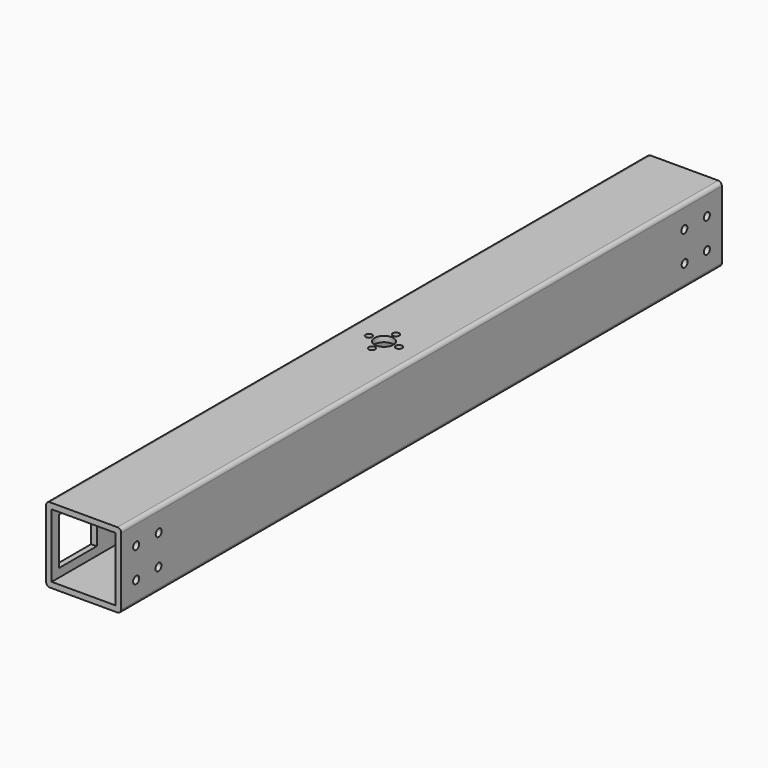
from build123d import *

# Parameters (mm, degrees)
SKETCH_W       = 34
SKETCH_H       = 34
PAD_DEPTH      = 400
SKETCH001_R    = 5
HOLE_DEPTH     = 40.001
SKETCH002_R    = 1.75
HOLE001_DEPTH  = 40.001
SKETCH003_R    = 2
HOLE002_DEPTH  = 25
HOLE002_TIPS_R = 2
SKETCH004_W    = 25
SKETCH004_H    = 25
POCKET_DEPTH   = 3


with BuildPart() as part:
    # Sketch → Pad (new body)
    with BuildSketch(Plane.XZ):
        with BuildLine():
            Line((2, 0), (38, 0))
            ThreePointArc((38, 0), (39.414214, 0.585786), (40, 2))
            Line((40, 2), (40, 38))
            ThreePointArc((40, 38), (39.414214, 39.414214), (38, 40))
            Line((38, 40), (2, 40))
            ThreePointArc((2, 40), (0.585786, 39.414214), (0, 38))
            Line((0, 38), (0, 2))
            ThreePointArc((0, 2), (0.585786, 0.585786), (2, 0))
        make_face()
        with Locations((20, 20)):
            Rectangle(SKETCH_W, SKETCH_H, mode=Mode.SUBTRACT)
    extrude(amount=PAD_DEPTH)

    # Sketch001 (on Face5 of Pad) → Hole (cut, through all)
    with BuildSketch(Plane(origin=(0, 0, 40), x_dir=(-1, 0, 0), z_dir=(0, 0, 1))):
        with Locations((-20, 200)):
            Circle(SKETCH001_R)
    extrude(amount=-HOLE_DEPTH, mode=Mode.SUBTRACT)

    # Sketch002 (on Face10 of Hole) → Hole001 (cut, through all)
    with BuildSketch(Plane(origin=(0, 0, 40), x_dir=(-1, 0, 0), z_dir=(0, 0, 1))):
        with Locations((-12.000042, 200.025804)):
            Circle(SKETCH002_R)
        with Locations((-27.999958, 200.025804)):
            Circle(SKETCH002_R)
        with Locations((-20, 192)):
            Circle(SKETCH002_R)
        with Locations((-20, 208)):
            Circle(SKETCH002_R)
    extrude(amount=-HOLE001_DEPTH, mode=Mode.SUBTRACT)

    # Sketch003 (on Face12 of Hole001) → Hole002 (cut)
    with BuildSketch(Plane(origin=(40, 0, 0), x_dir=(0, 0, 1), z_dir=(1, 0, 0))):
        with Locations((27.886159, 10)):
            Circle(SKETCH003_R)
        with Locations((11.886159, 10)):
            Circle(SKETCH003_R)
        with Locations((27.886159, 25)):
            Circle(SKETCH003_R)
        with Locations((11.886159, 24.829785)):
            Circle(SKETCH003_R)
        with Locations((27.886159, 390)):
            Circle(SKETCH003_R)
        with Locations((11.886159, 390)):
            Circle(SKETCH003_R)
        with Locations((27.886159, 375)):
            Circle(SKETCH003_R)
        with Locations((11.886159, 375.170215)):
            Circle(SKETCH003_R)
    extrude(amount=-HOLE002_DEPTH, mode=Mode.SUBTRACT)

    # Hole002 tips → Hole002 tip 1 section 0
    with BuildSketch(Plane(origin=(15, 0, 0), x_dir=(0, 0, 1), z_dir=(1, 0, 0)), mode=Mode.PRIVATE) as hole002_tip_1_s0:
        with Locations((27.886159, 10)):
            Circle(HOLE002_TIPS_R)
    loft([hole002_tip_1_s0.sketch, Vertex(13.798279, -10, 27.886159)], mode=Mode.SUBTRACT)

    # Hole002 tips → Hole002 tip 2 section 0
    with BuildSketch(Plane(origin=(15, 0, 0), x_dir=(0, 0, 1), z_dir=(1, 0, 0)), mode=Mode.PRIVATE) as hole002_tip_2_s0:
        with Locations((11.886159, 10)):
            Circle(HOLE002_TIPS_R)
    loft([hole002_tip_2_s0.sketch, Vertex(13.798279, -10, 11.886159)], mode=Mode.SUBTRACT)

    # Hole002 tips → Hole002 tip 3 section 0
    with BuildSketch(Plane(origin=(15, 0, 0), x_dir=(0, 0, 1), z_dir=(1, 0, 0)), mode=Mode.PRIVATE) as hole002_tip_3_s0:
        with Locations((27.886159, 25)):
            Circle(HOLE002_TIPS_R)
    loft([hole002_tip_3_s0.sketch, Vertex(13.798279, -25, 27.886159)], mode=Mode.SUBTRACT)

    # Hole002 tips → Hole002 tip 4 section 0
    with BuildSketch(Plane(origin=(15, 0, 0), x_dir=(0, 0, 1), z_dir=(1, 0, 0)), mode=Mode.PRIVATE) as hole002_tip_4_s0:
        with Locations((11.886159, 24.829785)):
            Circle(HOLE002_TIPS_R)
    loft([hole002_tip_4_s0.sketch, Vertex(13.798279, -24.829785, 11.886159)], mode=Mode.SUBTRACT)

    # Hole002 tips → Hole002 tip 5 section 0
    with BuildSketch(Plane(origin=(15, 0, 0), x_dir=(0, 0, 1), z_dir=(1, 0, 0)), mode=Mode.PRIVATE) as hole002_tip_5_s0:
        with Locations((27.886159, 390)):
            Circle(HOLE002_TIPS_R)
    loft([hole002_tip_5_s0.sketch, Vertex(13.798279, -390, 27.886159)], mode=Mode.SUBTRACT)

    # Hole002 tips → Hole002 tip 6 section 0
    with BuildSketch(Plane(origin=(15, 0, 0), x_dir=(0, 0, 1), z_dir=(1, 0, 0)), mode=Mode.PRIVATE) as hole002_tip_6_s0:
        with Locations((11.886159, 390)):
            Circle(HOLE002_TIPS_R)
    loft([hole002_tip_6_s0.sketch, Vertex(13.798279, -390, 11.886159)], mode=Mode.SUBTRACT)

    # Hole002 tips → Hole002 tip 7 section 0
    with BuildSketch(Plane(origin=(15, 0, 0), x_dir=(0, 0, 1), z_dir=(1, 0, 0)), mode=Mode.PRIVATE) as hole002_tip_7_s0:
        with Locations((27.886159, 375)):
            Circle(HOLE002_TIPS_R)
    loft([hole002_tip_7_s0.sketch, Vertex(13.798279, -375, 27.886159)], mode=Mode.SUBTRACT)

    # Hole002 tips → Hole002 tip 8 section 0
    with BuildSketch(Plane(origin=(15, 0, 0), x_dir=(0, 0, 1), z_dir=(1, 0, 0)), mode=Mode.PRIVATE) as hole002_tip_8_s0:
        with Locations((11.886159, 375.170215)):
            Circle(HOLE002_TIPS_R)
    loft([hole002_tip_8_s0.sketch, Vertex(13.798279, -375.170215, 11.886159)], mode=Mode.SUBTRACT)

    # Sketch004 (on Face11 of Hole002) → Pocket (cut)
    with BuildSketch(Plane(origin=(0, 0, 0), x_dir=(0, 0, -1), z_dir=(-1, 0, 0))):
        with Locations((-20, 17.5)):
            Rectangle(SKETCH004_W, SKETCH004_H)
        with Locations((-20, 382.5)):
            Rectangle(SKETCH004_W, SKETCH004_H)
    extrude(amount=-POCKET_DEPTH, mode=Mode.SUBTRACT)


solid = part.part
